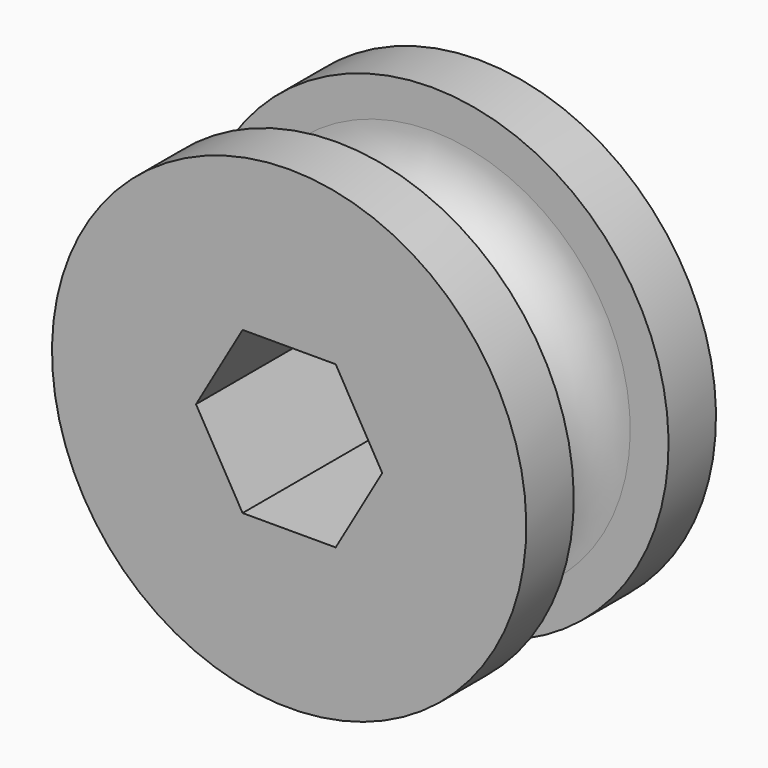
from build123d import *

# Parameters (mm, degrees)
F3_DEPTH = 12.7


with BuildPart() as f2:
    # F1 (on Right) → F2 (revolve)
    with BuildSketch(Plane.YZ):
        with BuildLine():
            Line((-4.7625, 15.875), (-4.7625, 19.05))
            Line((-4.7625, 19.05), (-9.525, 19.05))
            Line((-9.525, 19.05), (-9.525, 0))
            Line((-9.525, 0), (9.525, 0))
            Line((9.525, 0), (9.525, 19.05))
            Line((9.525, 19.05), (4.7615565856, 19.05))
            Line((4.7615565856, 19.05), (4.7615565856, 15.9697899354))
            ThreePointArc((4.7615565856, 15.9697899354), (0.0464539006, 11.2075257948), (-4.7625, 15.875))
        make_face()
    revolve(axis=Axis((0, 0, 0), (0, 1, 0)))

    # F0 (on Front) → F3 (cut, symmetric)
    with BuildSketch(Plane.XZ):
        Polygon((3.7394976935, 6.477), (-3.7394976935, 6.477), (-7.4789953871, 0), (-3.7394976935, -6.477), (3.7394976935, -6.477), (7.4789953871, 0), align=None)
    extrude(amount=F3_DEPTH, both=True, mode=Mode.SUBTRACT)


solid = f2.part
